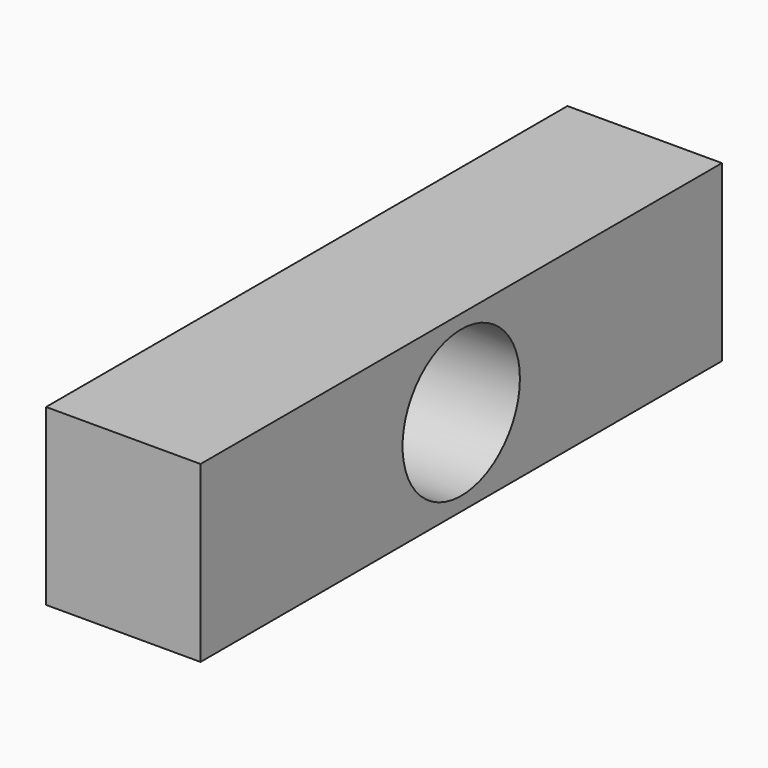
from build123d import *

# Parameters (mm, degrees)
F0_W          = 12.03933
F0_H          = 13.584534
F1_DEPTH      = 25.4
F1_DEPTH_BACK = 25.4
F2_R          = 5.716631
F3_DEPTH      = 25.4


with BuildPart() as f1:
    # F0 (on Front) → F1 (new body, two sides)
    with BuildSketch(Plane.XZ) as f1_sk:
        Rectangle(F0_W, F0_H)
    extrude(amount=F1_DEPTH)
    extrude(f1_sk.sketch, amount=-F1_DEPTH_BACK)

    # F2 (on face) → F3 (cut)
    with BuildSketch(Plane.YZ.offset(6.019665)):
        Circle(F2_R)
    extrude(amount=-F3_DEPTH, mode=Mode.SUBTRACT)


solid = f1.part
